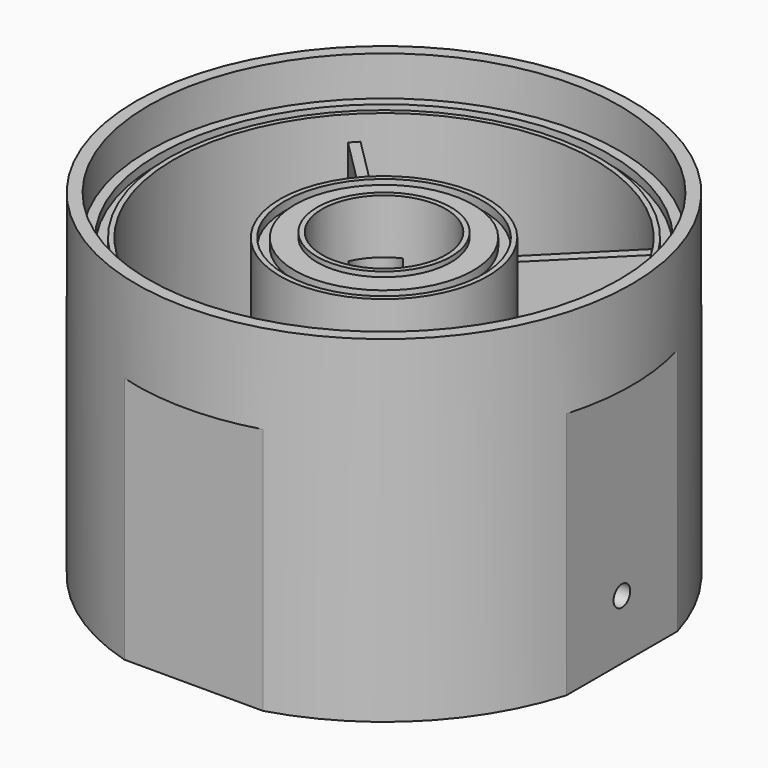
from build123d import *

# Parameters (mm, degrees)
F0_R           = 1
F2_W           = 44.0960112051
F2_H           = 143.1585978536
F2_W_2         = 29.2622874999
F2_H_2         = 158.4638434939
F3_DEPTH       = 50.001
F3_DEPTH_BACK  = 50.001
F4_R           = 2.1
F5_DEPTH       = 12
F6_R           = 4.5
F7_DEPTH       = 40
F8_R           = 2.5
F9_DEPTH       = 6
F11_DEPTH      = 35
F12_W          = 44.5515640792
F12_H          = 69.5953371296
F12_W_2        = 37.2261542232
F12_H_2        = 82.5126560354
F13_DEPTH      = 50.001
F13_DEPTH_BACK = 50.001
F14_R          = 4
F15_DEPTH      = 10


with BuildPart() as f1:
    # F0 (on Front) → F1 (revolve)
    with BuildSketch(Plane.XZ):
        Polygon((-47.5, 68), (-50, 68), (-50, 0), (-27.5, 0), (-27.5, 10), (0, 10), (0, 16), (-3, 16), (-3, 26), (-5, 26), (-5, 31), (-12.5, 31), (-12.5, 60), (-12.5, 61), (-13.5, 61), (-13.5, 60), (-18, 60), (-18, 58.25), (-20, 58.25), (-20, 60), (-21, 60), (-21, 20), (-42.5, 20), (-42.5, 60), (-43.5, 60), (-43.5, 58.25), (-45.5, 58.25), (-45.5, 60), (-47.5, 60), align=None)
        with Locations((-38, 12)):
            Circle(F0_R, mode=Mode.SUBTRACT)
    revolve(axis=Axis((0, 0, 27.3842578754), (0, 0, -1)))

    # F2 (on Front) → F3 (cut, two sides)
    with BuildSketch(Plane.XZ) as f3_sk:
        with Locations((-70.0480056025, -21.5792989268)):
            Rectangle(F2_W, F2_H)
        with Locations((62.6311437499, -29.2319217469)):
            Rectangle(F2_W_2, F2_H_2)
    extrude(amount=F3_DEPTH, mode=Mode.SUBTRACT)
    extrude(f3_sk.sketch, amount=-F3_DEPTH_BACK, mode=Mode.SUBTRACT)

    # F4 (on face) → F5 (cut)
    with BuildSketch(Plane.YZ.offset(48)):
        with Locations((0, 12)):
            Circle(F4_R)
    extrude(amount=-F5_DEPTH, mode=Mode.SUBTRACT)

    # F6 (on face) → F7 (cut)
    with BuildSketch(Plane(origin=(0, 0, 10), x_dir=(1, 0, 0), z_dir=(0, 0, -1))):
        with Locations((7.4246212025, 7.4246212025)):
            Circle(F6_R)
        with Locations((-7.4246212025, 7.4246212025)):
            Circle(F6_R)
        with Locations((-7.4246212025, -7.4246212025)):
            Circle(F6_R)
        with Locations((7.4246212025, -7.4246212025)):
            Circle(F6_R)
    extrude(amount=-F7_DEPTH, mode=Mode.SUBTRACT)

    # F8 (on face) → F9 (cut)
    with BuildSketch(Plane.XY.offset(20)):
        with Locations((-32, 0)):
            Circle(F8_R)
        with Locations((32, 0)):
            Circle(F8_R)
    extrude(amount=-F9_DEPTH, mode=Mode.SUBTRACT)

    # F12 (on Right) → F13 (cut, two sides)
    with BuildSketch(Plane.YZ) as f13_sk:
        with Locations((70.2757820396, 15.2023314352)):
            Rectangle(F12_W, F12_H)
        with Locations((-66.6130771116, 8.7436719823)):
            Rectangle(F12_W_2, F12_H_2)
    extrude(amount=-F13_DEPTH, mode=Mode.SUBTRACT)
    extrude(f13_sk.sketch, amount=F13_DEPTH_BACK, mode=Mode.SUBTRACT)

    # F14 (on face) → F15 (cut)
    with BuildSketch(Plane(origin=(0, 48, 0), x_dir=(-1, 0, 0), z_dir=(0, 1, 0))):
        with Locations((0, 28.8138720456)):
            Circle(F14_R)
    extrude(amount=-F15_DEPTH, mode=Mode.SUBTRACT)


with BuildPart() as f11:
    # F10 (on face) → F11 (new body)
    with BuildSketch(Plane.XY.offset(20)):
        Polygon((29.3366113642, 30.7508249266), (14.125290193, 15.5395037554), (15.5395037554, 14.125290193), (30.7508249266, 29.3366113642), align=None)
    extrude(amount=F11_DEPTH)


with BuildPart() as f11b:
    # F10 (on face) → F11, piece 2 (new body)
    with BuildSketch(Plane.XY.offset(20)):
        Polygon((-15.5395037554, 14.125290193), (-14.125290193, 15.5395037554), (-29.3366113642, 30.7508249266), (-30.7508249266, 29.3366113642), align=None)
    extrude(amount=F11_DEPTH)


solid = Compound([f1.part, f11.part, f11b.part])
